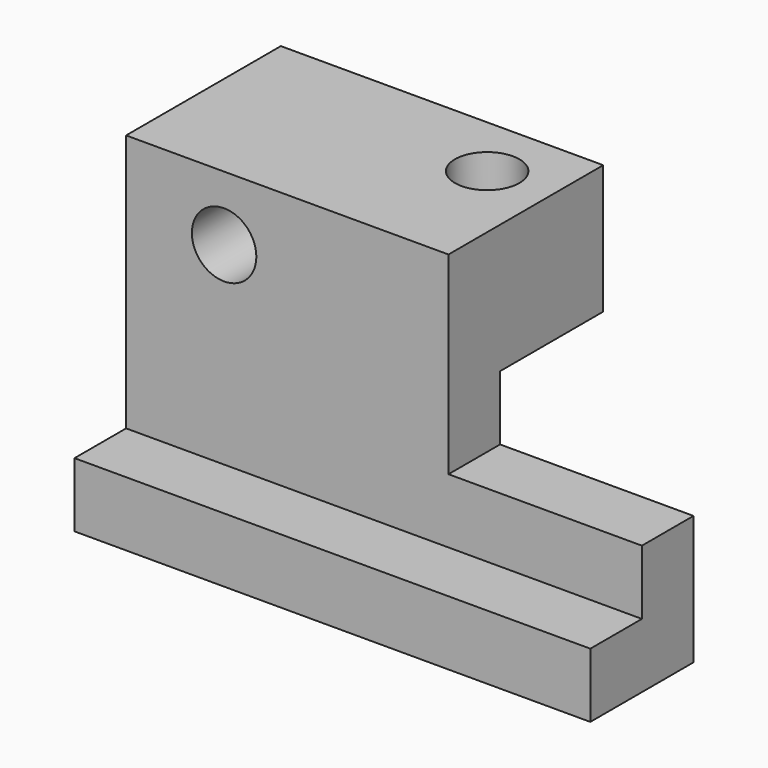
from build123d import *

# Parameters (mm, degrees)
F0_W     = 50.8
F0_H     = 6.35
F1_DEPTH = 6.35
F2_DEPTH = 6.35
F0_W_2   = 31.75
F0_H_2   = 12.7
F0_R     = 3.175
F3_DEPTH = 19.05
F4_R     = 3.175
F5_DEPTH = 31.751


with BuildPart() as f1:
    # F0 (on Front) → F1 (new body)
    with BuildSketch(Plane.XZ):
        with Locations((-25.4, 3.175)):
            Rectangle(F0_W, F0_H)
    extrude(amount=F1_DEPTH)

    # F0 (on Front) → F2 (join)
    with BuildSketch(Plane.XZ):
        Polygon((-50.8, 6.35), (0, 6.35), (0, 12.7), (-19.05, 12.7), (-19.05, 19.05), (-50.8, 19.05), align=None)
        with Locations((-25.4, 3.175)):
            Rectangle(F0_W, F0_H)
    extrude(amount=-F2_DEPTH)

    # F0 (on Front) → F3 (join)
    with BuildSketch(Plane.XZ):
        with Locations((-34.925, 25.4)):
            Rectangle(F0_W_2, F0_H_2)
        with Locations((-41.148, 25.4)):
            Circle(F0_R, mode=Mode.SUBTRACT)
    extrude(amount=-F3_DEPTH)

    # F4 (on face) → F5 (cut, through all)
    with BuildSketch(Plane.XY.offset(31.75)):
        with Locations((-25.4, 12.7)):
            Circle(F4_R)
    extrude(amount=-F5_DEPTH, mode=Mode.SUBTRACT)


solid = f1.part
